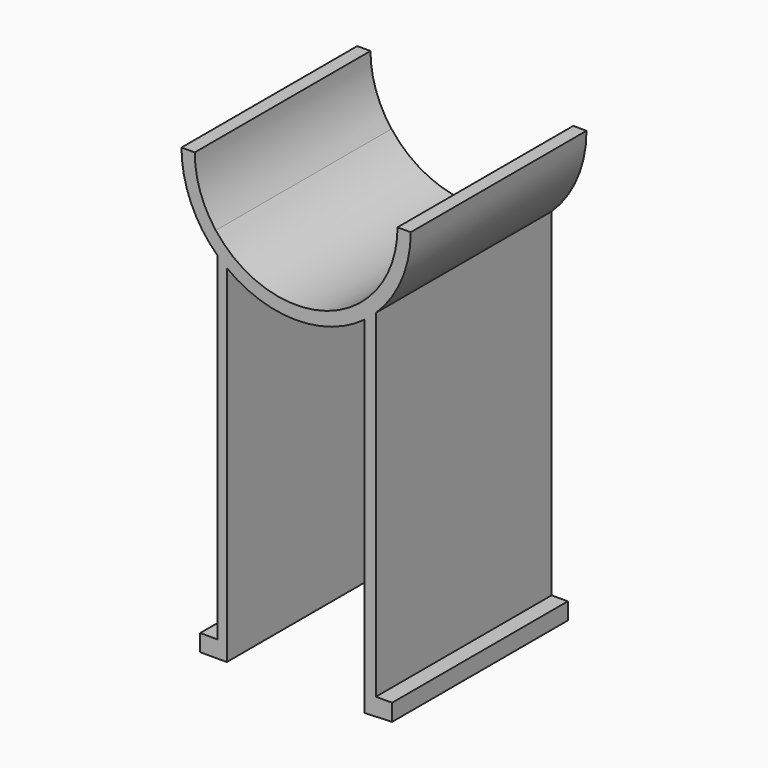
from build123d import *

# Parameters (mm, degrees)
F1_DEPTH = 130


with BuildPart() as f1:
    # F0 (on Front) → F1 (new body)
    with BuildSketch(Plane.XZ):
        with BuildLine():
            Line((0, 10), (0, 0))
            Line((0, 0), (15.757065, 0))
            Line((15.757065, 0), (15.757065, 205.330478))
            ThreePointArc((15.757065, 205.330478), (12.938265, 207.591795), (10.243875, 210))
            Line((10.243875, 210), (10.243875, 10))
            Line((10.243875, 10), (0, 10))
        make_face()
        with BuildLine():
            ThreePointArc((10.243875, 210), (12.938265, 207.591795), (15.757065, 205.330478))
            ThreePointArc((15.757065, 205.330478), (56.464246, 191.519328), (97.300157, 204.94508))
            ThreePointArc((97.300157, 204.94508), (100.728563, 207.674159), (103.973635, 210.618874))
            ThreePointArc((103.973635, 210.618874), (119.250429, 232.892095), (124.626733, 259.36042))
            Line((124.626733, 259.36042), (116.784884, 259.36042))
            ThreePointArc((116.784884, 259.36042), (113.592055, 240.048628), (104.353374, 222.792145))
            ThreePointArc((104.353374, 222.792145), (56.784884, 199.36042), (9.216394, 222.792145))
            ThreePointArc((9.216394, 222.792145), (-0.022288, 240.048628), (-3.215116, 259.36042))
            Line((-3.215116, 259.36042), (-11.056966, 259.36042))
            ThreePointArc((-11.056966, 259.36042), (-5.50454, 232.480237), (10.243875, 210))
        make_face()
        with BuildLine():
            ThreePointArc((103.973635, 210.618874), (100.728563, 207.674159), (97.300157, 204.94508))
            Line((97.300157, 204.94508), (97.300157, 0))
            Line((97.300157, 0), (113.569767, 0.618874))
            Line((113.569767, 0.618874), (113.569767, 10.618874))
            Line((113.569767, 10.618874), (103.973635, 10.618874))
            Line((103.973635, 10.618874), (103.973635, 210.618874))
        make_face()
    extrude(amount=F1_DEPTH)


solid = f1.part
